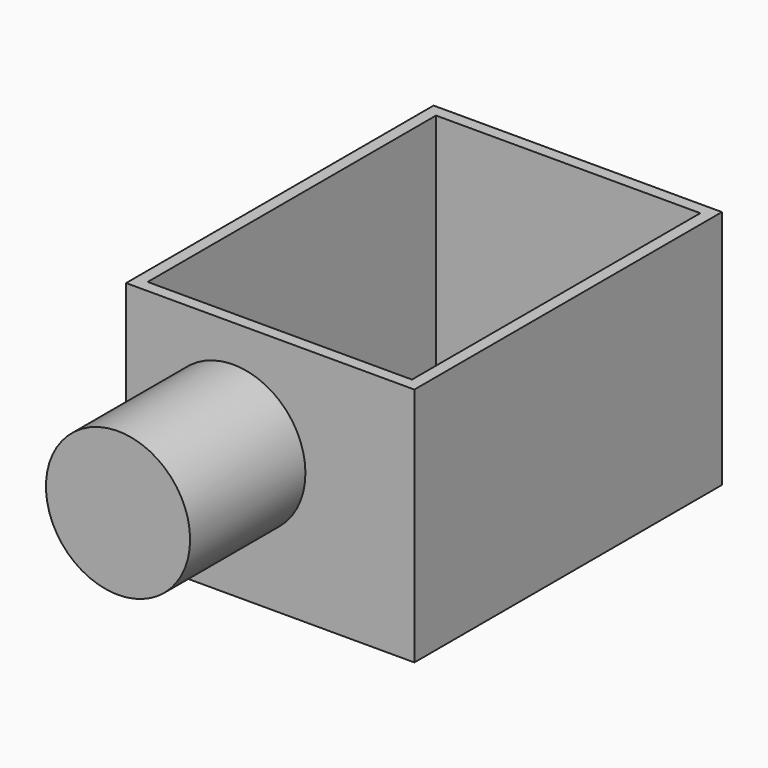
from build123d import *

# Parameters (mm, degrees)
F0_W     = 304.8
F0_H     = 406.4
F1_DEPTH = 254
F2_T     = -12.7
F3_R     = 76.2
F4_DEPTH = 152.4


with BuildPart() as f1:
    # F0 (on Top) → F1 (new body)
    with BuildSketch(Plane.XY):
        with Locations((-92.487486, 36.538938)):
            Rectangle(F0_W, F0_H)
    extrude(amount=F1_DEPTH)

    # F2
    f2_openings = [f1.faces().sort_by_distance(p)[0] for p in [
        (-92.487486, 36.538938, 254),
    ]]
    offset(amount=F2_T, openings=f2_openings)

    # F3 (on face) → F4 (join)
    with BuildSketch(Plane.XZ.offset(166.661062)):
        with Locations((-131.477997, 138.828054)):
            Circle(F3_R)
    extrude(amount=F4_DEPTH)


solid = f1.part
